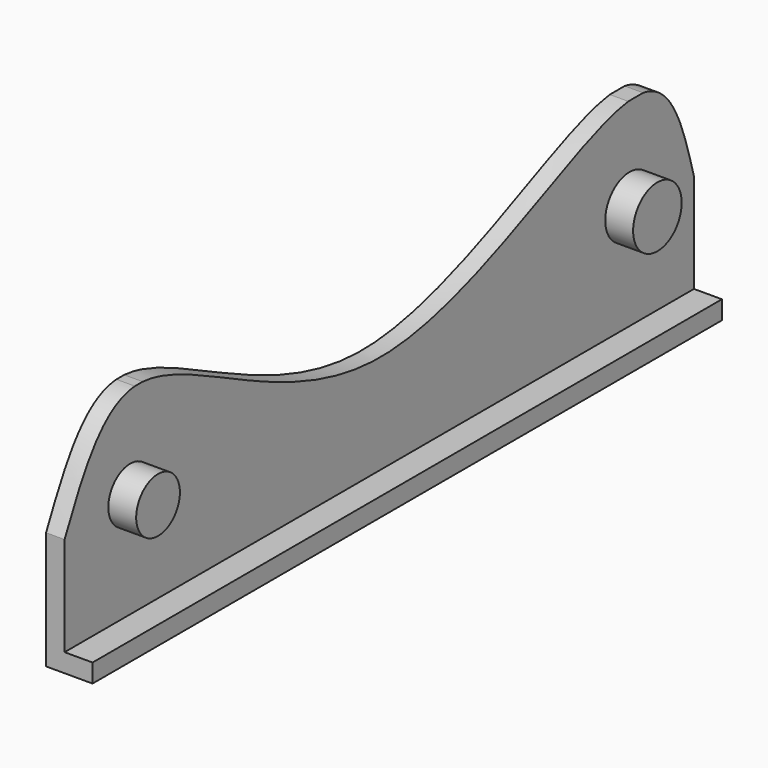
from build123d import *

# Parameters (mm, degrees)
F1_DEPTH = 127
F2_R     = 4.4102581717
F2_R_2   = 4.8994098274
F3_DEPTH = 4.5
F5_DEPTH = 25


with BuildPart() as f1:
    # F0 (on Front) → F1 (new body)
    with BuildSketch(Plane.XZ):
        Polygon((0, 35.0287221372), (0, 0), (7.501238957, 0), (7.501238957, 2.9951336328), (2.985865809, 2.9951336328), (2.985865809, 35.0287221372), align=None)
    extrude(amount=F1_DEPTH)

    # F2 (on face) → F3 (join)
    with BuildSketch(Plane.YZ.offset(2.985865809)):
        with Locations((-113.7654781342, 19.9951336328)):
            Circle(F2_R)
        with Locations((-13, 19.9951336328)):
            Circle(F2_R_2)
    extrude(amount=F3_DEPTH)

    # F4 (on face) → F5 (cut)
    with BuildSketch(Plane.YZ.offset(2.985865809)):
        with BuildLine():
            Line((-13.2493425337, 35.0287221372), (-111.2344633553, 35.0287221372))
            add(Edge.make_bspline(
                [(-111.2344633553, 35.0287221372), (-100.3129034646, 34.2859826119), (-64.8860498538, 4.0545608595), (-24.5372166276, 33.6567649219), (-13.2493425337, 35.0287221372)],
                knots=[0.2100734241, 0.2100734241, 0.2100734241, 0.2100734241, 0.5001806892, 0.7879158408, 0.7879158408, 0.7879158408, 0.7879158408], degree=3))
        make_face()
        with BuildLine():
            Line((-127, 35.0287221372), (-127, 19.011927885))
            add(Edge.make_bspline(
                [(-127, 19.011927885), (-123.3541108211, 26.7616729413), (-119.7082216422, 34.5114179975), (-112.8133311868, 35.0287221372)],
                knots=[0, 0, 0, 0, 0.1956359691, 0.1956359691, 0.1956359691, 0.1956359691], degree=3))
            Line((-112.8133311868, 35.0287221372), (-127, 35.0287221372))
        make_face()
        with BuildLine():
            add(Edge.make_bspline(
                [(-10.2470470592, 35.0287221372), (-4.1562861309, 34.0936794049), (-2.0781430654, 26.552803645), (0, 19.011927885)],
                knots=[0.8155753696, 0.8155753696, 0.8155753696, 0.8155753696, 1, 1, 1, 1], degree=3))
            Line((0, 19.011927885), (0, 35.0287221372))
            Line((0, 35.0287221372), (-10.2470470592, 35.0287221372))
        make_face()
    extrude(amount=-F5_DEPTH, mode=Mode.SUBTRACT)


solid = f1.part
